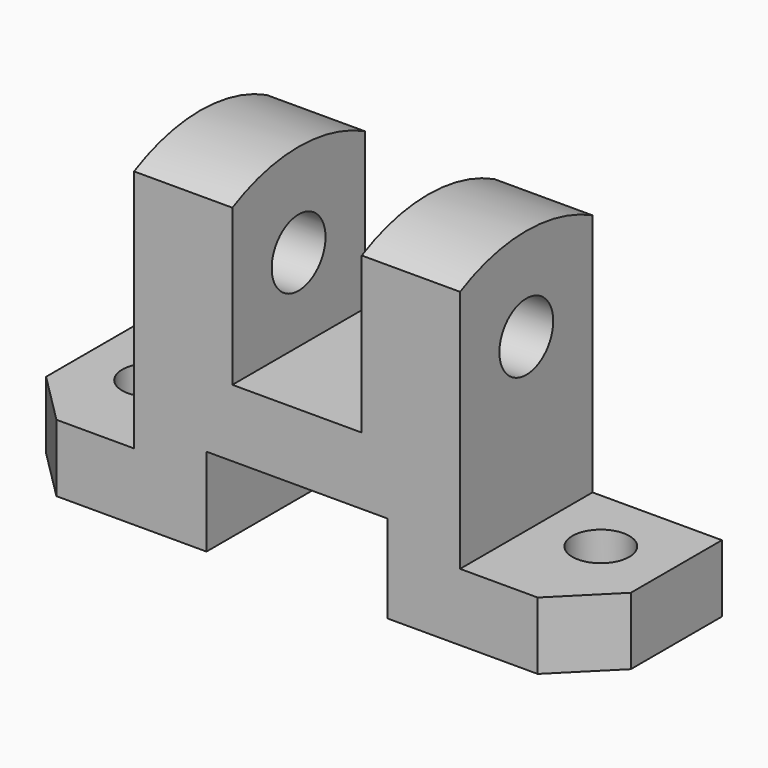
from build123d import *

# Parameters (mm, degrees)
F1_DEPTH  = 16
F2_SIZE   = 10
F3_SIZE   = 10
F4_R      = 5.5
F5_DEPTH  = 13
F6_R      = 6.5
F7_DEPTH  = 63
F9_DEPTH  = 19
F11_DEPTH = 19


with BuildPart() as f1:
    # F0 (on Front) → F1 (new body, symmetric)
    with BuildSketch(Plane.XZ):
        Polygon((-56.5, 0), (-17.5, 0), (-17.5, 17), (17.5, 17), (17.5, 0), (56.5, 0), (56.5, 13), (31.5, 13), (31.5, 60.129), (12.5, 60.129), (12.5, 30), (-12.5, 30), (-12.5, 60.129), (-31.5, 60.129), (-31.5, 13), (-56.5, 13), align=None)
    extrude(amount=F1_DEPTH, both=True)

    # F2
    f2_edges = [f1.edges().sort_by_distance(p)[0] for p in [
        (56.5, -16, 6.5),
    ]]
    chamfer(f2_edges, length=F2_SIZE)

    # F3
    f3_edges = [f1.edges().sort_by_distance(p)[0] for p in [
        (-56.5, -16, 6.5),
    ]]
    chamfer(f3_edges, length=F3_SIZE)

    # F4 (on face) → F5 (cut, through all)
    with BuildSketch(Plane.XY.offset(13)):
        with Locations((43.5, 3)):
            Circle(F4_R)
        with Locations((-43.5, 3)):
            Circle(F4_R)
    extrude(amount=-F5_DEPTH, mode=Mode.SUBTRACT)

    # F6 (on face) → F7 (cut, through all)
    with BuildSketch(Plane.YZ.offset(31.5)):
        with Locations((0, 46)):
            Circle(F6_R)
    extrude(amount=-F7_DEPTH, mode=Mode.SUBTRACT)

    # F8 (on face) → F9 (join)
    with BuildSketch(Plane(origin=(-31.5, 0, 0), x_dir=(0, -1, 0), z_dir=(-1, 0, 0))):
        with BuildLine():
            Line((-16, 60.129), (16, 60.129))
            ThreePointArc((16, 60.129), (0, 64.000235), (-16, 60.129))
        make_face()
    extrude(amount=-F9_DEPTH)

    # F10 (on face) → F11 (join)
    with BuildSketch(Plane.YZ.offset(31.5)):
        with BuildLine():
            Line((-16, 60.129), (16, 60.129))
            ThreePointArc((16, 60.129), (0, 64.000235), (-16, 60.129))
        make_face()
    extrude(amount=-F11_DEPTH)


solid = f1.part
